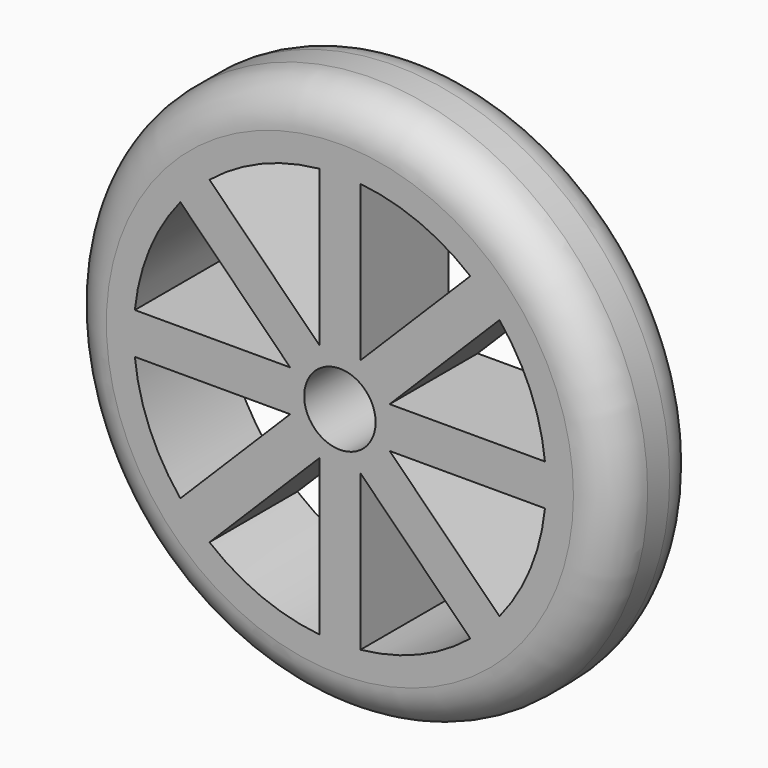
from build123d import *

# Parameters (mm, degrees)
F0_R     = 25.4
F1_DEPTH = 5.08
F2_R     = 3.81
F0_R_2   = 3.302
F3_DEPTH = 5.08


with BuildPart() as f1:
    # F0 (on Front) → F1 (new body, symmetric)
    with BuildSketch(Plane.XZ):
        Circle(F0_R)
        with BuildLine():
            ThreePointArc((18.9545106806, 1.9049999628), (19.0261126937, 0.9536958462), (19.05, 0))
            ThreePointArc((19.05, 0), (19.0261128131, -0.9536934636), (18.9545111577, -1.9049952154))
            ThreePointArc((18.9545111577, -1.9049952154), (17.5999062473, -7.2901166031), (14.749902222, -12.0558236733))
            ThreePointArc((14.749902222, -12.0558236733), (13.4703854002, -13.4703829631), (12.0558263419, -14.7499000408))
            ThreePointArc((12.0558263419, -14.7499000408), (7.2901213153, -17.5999042954), (1.905001936, -18.9545104823))
            ThreePointArc((1.905001936, -18.9545104823), (1.3528e-06, -19.05), (-1.904999244, -18.9545107529))
            ThreePointArc((-1.904999244, -18.9545107529), (-7.2901189565, -17.5999052725), (-12.055824483, -14.7499015601))
            ThreePointArc((-12.055824483, -14.7499015601), (-13.4703841719, -13.4703841913), (-14.7499015428, -12.0558245042))
            ThreePointArc((-14.7499015428, -12.0558245042), (-17.5999039961, -7.2901220379), (-18.9545100886, -1.9050058538))
            ThreePointArc((-18.9545100886, -1.9050058538), (-19.05, -2.3188e-06), (-18.9545105523, 1.9050012395))
            ThreePointArc((-18.9545105523, 1.9050012395), (-17.5999046178, 7.290120537), (-14.7499006641, 12.0558255794))
            ThreePointArc((-14.7499006641, 12.0558255794), (-13.4703834119, 13.4703849513), (-12.0558238937, 14.7499020418))
            ThreePointArc((-12.0558238937, 14.7499020418), (-7.2901186049, 17.5999054181), (-1.904999244, 18.9545107529))
            ThreePointArc((-1.904999244, 18.9545107529), (-2.13e-07, 19.05), (1.9049988201, 18.9545107955))
            ThreePointArc((1.9049988201, 18.9545107955), (7.2901186408, 17.5999054032), (12.0558242838, 14.749901723))
            ThreePointArc((12.0558242838, 14.749901723), (13.4703837424, 13.4703846208), (14.7499009369, 12.0558252456))
            ThreePointArc((14.7499009369, 12.0558252456), (17.5999049458, 7.2901197452), (18.9545106806, 1.9049999628))
        make_face(mode=Mode.SUBTRACT)
    extrude(amount=F1_DEPTH, both=True)

    # F2
    f2_edges = [f1.edges().sort_by_distance(p)[0] for p in [
        (-25.4, 5.08, 0),
        (-25.4, -5.08, 0),
    ]]
    fillet(f2_edges, radius=F2_R)

    # F0 (on Front) → F3 (join, symmetric)
    with BuildSketch(Plane.XZ):
        with BuildLine():
            ThreePointArc((18.9545111577, -1.9049952154), (19.0261128131, -0.9536934636), (19.05, 0))
            ThreePointArc((19.05, 0), (19.0261126937, 0.9536958462), (18.9545106806, 1.9049999628))
            Line((18.9545106806, 1.9049999628), (4.5990766623, 1.9050004462))
            Line((4.5990766623, 1.9050004462), (14.7499009369, 12.0558252456))
            ThreePointArc((14.7499009369, 12.0558252456), (13.4703837424, 13.4703846208), (12.0558242838, 14.749901723))
            Line((12.0558242838, 14.749901723), (1.905, 4.5990772875))
            Line((1.905, 4.5990772875), (1.9049988201, 18.9545107955))
            ThreePointArc((1.9049988201, 18.9545107955), (-2.13e-07, 19.05), (-1.904999244, 18.9545107529))
            Line((-1.904999244, 18.9545107529), (-1.904999244, 4.5990775438))
            Line((-1.904999244, 4.5990775438), (-12.0558238937, 14.7499020418))
            ThreePointArc((-12.0558238937, 14.7499020418), (-13.4703834119, 13.4703849513), (-14.7499006641, 12.0558255794))
            Line((-14.7499006641, 12.0558255794), (-4.599075316, 1.905000756))
            Line((-4.599075316, 1.905000756), (-18.9545105523, 1.9050012395))
            ThreePointArc((-18.9545105523, 1.9050012395), (-19.05, -2.3188e-06), (-18.9545100886, -1.9050058538))
            Line((-18.9545100886, -1.9050058538), (-4.5990790156, -1.9050018252))
            Line((-4.5990790156, -1.9050018252), (-14.7499015428, -12.0558245042))
            ThreePointArc((-14.7499015428, -12.0558245042), (-13.4703841719, -13.4703841913), (-12.055824483, -14.7499015601))
            Line((-12.055824483, -14.7499015601), (-1.904999244, -4.5990757963))
            Line((-1.904999244, -4.5990757963), (-1.904999244, -18.9545107529))
            ThreePointArc((-1.904999244, -18.9545107529), (1.3528e-06, -19.05), (1.905001936, -18.9545104823))
            Line((1.905001936, -18.9545104823), (1.905000756, -4.5990749797))
            Line((1.905000756, -4.5990749797), (12.0558263419, -14.7499000408))
            ThreePointArc((12.0558263419, -14.7499000408), (13.4703854002, -13.4703829631), (14.749902222, -12.0558236733))
            Line((14.749902222, -12.0558236733), (4.599077641, -1.904999244))
            Line((4.599077641, -1.904999244), (18.9545111577, -1.9049952154))
        make_face()
        Circle(F0_R_2, mode=Mode.SUBTRACT)
    extrude(amount=F3_DEPTH, both=True)


solid = f1.part
